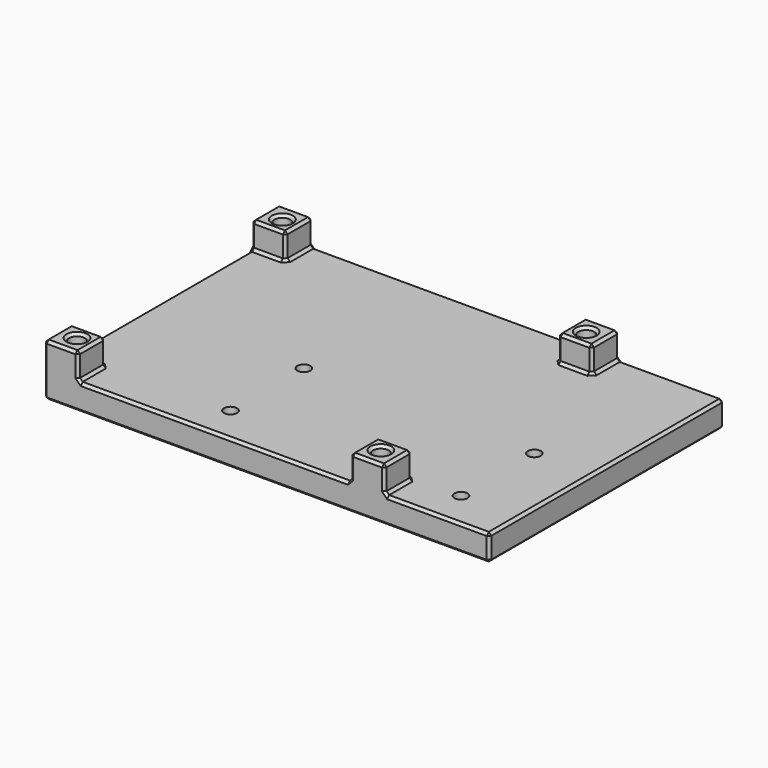
from build123d import *

# Parameters (mm, degrees)
SKETCH_W        = 85
SKETCH_H        = 56
PAD_DEPTH       = 5
SKETCH001_W     = 6.5
SKETCH001_H     = 6.5
PAD001_DEPTH    = 5
SKETCH002_R     = 1.5
POCKET_DEPTH    = 10.001
SKETCH003_R     = 1.25
POCKET001_DEPTH = 10.001
CHAMFER_SIZE    = 0.5


with BuildPart() as part:
    # Sketch (on XY_Plane of Origin) → Pad (new body)
    with BuildSketch(Plane.XY):
        Rectangle(SKETCH_W, SKETCH_H)
    extrude(amount=PAD_DEPTH)

    # Sketch001 (on Face6 of Pad) → Pad001 (join)
    with BuildSketch(Plane.XY.offset(5)):
        with Locations((-39.25, 24.75)):
            Rectangle(SKETCH001_W, SKETCH001_H)
        with Locations((-39.25, -24.75)):
            Rectangle(SKETCH001_W, SKETCH001_H)
        with Locations((19.25, 24.75)):
            Rectangle(SKETCH001_W, SKETCH001_H)
        with Locations((19.25, -24.75)):
            Rectangle(SKETCH001_W, SKETCH001_H)
    extrude(amount=PAD001_DEPTH)

    # Sketch002 (on Face5 of Pad001) → Pocket (cut, through all)
    with BuildSketch(Plane.XY.offset(10)):
        with Locations((-39, 24.5)):
            Circle(SKETCH002_R)
        with Locations((-39, -24.5)):
            Circle(SKETCH002_R)
        with Locations((19, 24.5)):
            Circle(SKETCH002_R)
        with Locations((19, -24.5)):
            Circle(SKETCH002_R)
    extrude(amount=-POCKET_DEPTH, mode=Mode.SUBTRACT)

    # Sketch003 (on Face1 of Pocket) → Pocket001 (cut, through all)
    with BuildSketch(Plane(origin=(0, 0, 0), x_dir=(1, 0, 0), z_dir=(0, 0, -1))):
        with Locations((31.5, 21)):
            Circle(SKETCH003_R)
        with Locations((31.5, 3.5)):
            Circle(SKETCH003_R)
        with Locations((-12.5, 21)):
            Circle(SKETCH003_R)
        with Locations((-12.5, 3.5)):
            Circle(SKETCH003_R)
    extrude(amount=-POCKET001_DEPTH, mode=Mode.SUBTRACT)

    # Chamfer
    chamfer_edges = [part.edges().sort_by_distance(p)[0] for p in [
        (42.5, 28, 2.5),
        (0, 28, 0),
        (-42.5, 28, 5),
        (-39.25, 28, 10),
        (-36, 28, 7.5),
        (-10, 28, 5),
        (16, 28, 7.5),
        (19.25, 28, 10),
        (22.5, 28, 7.5),
        (32.5, 28, 5),
        (-42.5, 0, 0),
        (-42.5, -28, 5),
        (-42.5, -24.75, 10),
        (-42.5, -21.5, 7.5),
        (-42.5, 0, 5),
        (-42.5, 21.5, 7.5),
        (-42.5, 24.75, 10),
        (0, -28, 0),
        (42.5, -28, 2.5),
        (32.5, -28, 5),
        (22.5, -28, 7.5),
        (19.25, -28, 10),
        (16, -28, 7.5),
        (-10, -28, 5),
        (-36, -28, 7.5),
        (-39.25, -28, 10),
        (42.5, 0, 0),
        (42.5, 0, 5),
        (-36, -24.75, 10),
        (-39.25, -21.5, 10),
        (-40.5, -24.5, 10),
        (-39.25, 21.5, 10),
        (-36, 24.75, 10),
        (-40.5, 24.5, 10),
        (16, 24.75, 10),
        (19.25, 21.5, 10),
        (22.5, 24.75, 10),
        (17.5, 24.5, 10),
        (16, -24.75, 10),
        (22.5, -24.75, 10),
        (19.25, -21.5, 10),
        (17.5, -24.5, 10),
        (22.5, -21.5, 7.5),
        (22.5, -24.75, 5),
        (16, -21.5, 7.5),
        (19.25, -21.5, 5),
        (16, -24.75, 5),
        (-36, -21.5, 7.5),
        (-36, -24.75, 5),
        (-39.25, -21.5, 5),
        (-36, 21.5, 7.5),
        (-36, 24.75, 5),
        (-39.25, 21.5, 5),
        (22.5, 21.5, 7.5),
        (22.5, 24.75, 5),
        (16, 21.5, 7.5),
        (19.25, 21.5, 5),
        (16, 24.75, 5),
        (17.5, -24.5, 0),
        (-40.5, -24.5, 0),
        (-13.75, -21, 0),
        (-13.75, -3.5, 0),
        (30.25, -3.5, 0),
        (30.25, -21, 0),
        (17.5, 24.5, 0),
        (-40.5, 24.5, 0),
    ]]
    chamfer(chamfer_edges, length=CHAMFER_SIZE)


solid = part.part
